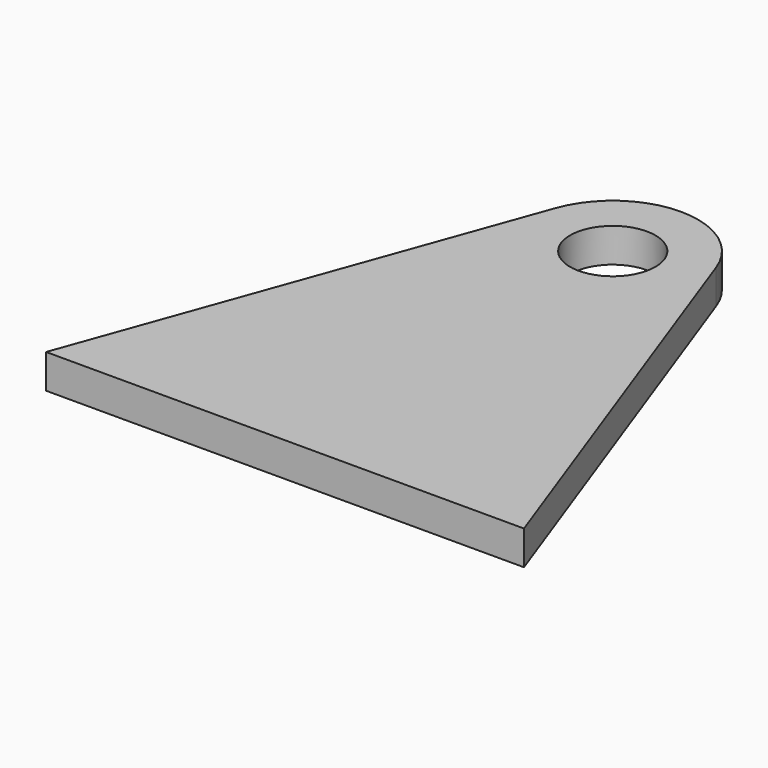
from build123d import *

# Parameters (mm, degrees)
F0_R     = 25
F1_DEPTH = 20


with BuildPart() as f1:
    # F0 (on Top) → F1 (new body)
    with BuildSketch(Plane.XY):
        with BuildLine():
            ThreePointArc((-47.017566, 17.010247), (-8.634863, -49.248748), (50, 0))
            ThreePointArc((50, 0), (49.248748, 8.634863), (47.017566, 17.010247))
            ThreePointArc((47.017566, 17.010247), (0, 50), (-47.017566, 17.010247))
        make_face()
        Circle(F0_R, mode=Mode.SUBTRACT)
        with BuildLine():
            ThreePointArc((47.017566, 17.010247), (49.248748, 8.634863), (50, 0))
            ThreePointArc((50, 0), (-8.634863, -49.248748), (-47.017566, 17.010247))
            Line((-47.017566, 17.010247), (-140, -240))
            Line((-140, -240), (0, -240))
            Line((0, -240), (140, -240))
            Line((140, -240), (47.017566, 17.010247))
        make_face()
    extrude(amount=F1_DEPTH)


solid = f1.part
